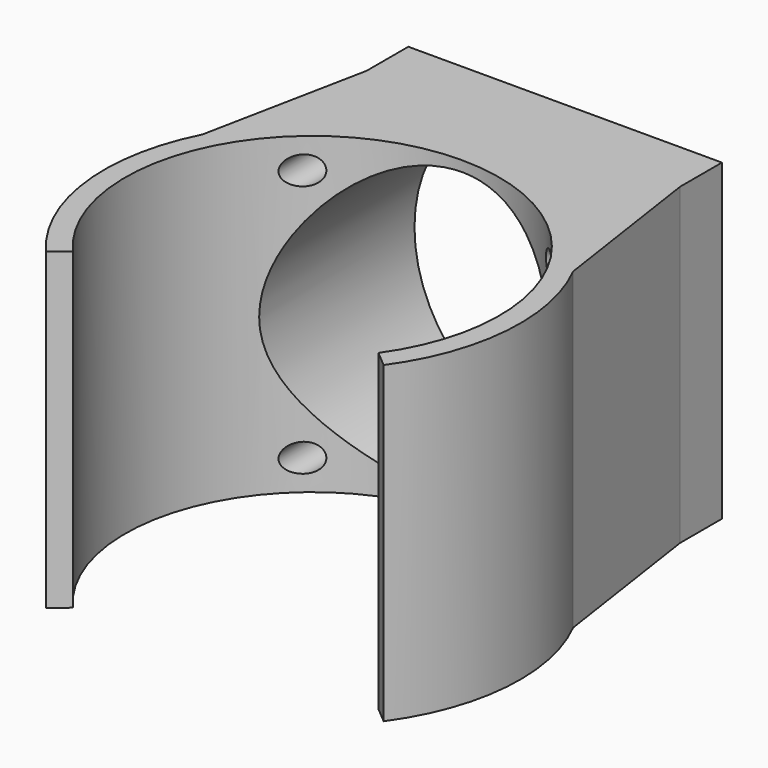
from build123d import *

# Parameters (mm, degrees)
F1_DEPTH = 30
F2_R     = 1.35
F2_R_2   = 14
F3_DEPTH = 25


with BuildPart() as f1:
    # F0 (on Top) → F1 (new body)
    with BuildSketch(Plane.XY):
        with BuildLine():
            ThreePointArc((-13.462473, -11.797111), (-0.924812, 17.876094), (14.60798, -10.344899))
            Line((14.60798, -10.344899), (16.140658, -11.639981))
            ThreePointArc((16.140658, -11.639981), (19.841413, -1.525887), (17.73066, 9.035137))
            Line((17.73066, 9.035137), (15.409903, 24.723038))
            Line((15.409903, 24.723038), (15.409903, 29.723038))
            Line((15.409903, 29.723038), (-14.590097, 29.723038))
            Line((-14.590097, 29.723038), (-14.590097, 24.723038))
            Line((-14.590097, 24.723038), (-17.73066, 9.035137))
            ThreePointArc((-17.73066, 9.035137), (-19.750704, -2.43304), (-15.007816, -13.068109))
            Line((-15.007816, -13.068109), (-13.462473, -11.797111))
        make_face()
    extrude(amount=F1_DEPTH)

    # F2 (on face) → F3 (cut)
    with BuildSketch(Plane(origin=(0, 29.723038, 0), x_dir=(-1, 0, 0), z_dir=(0, 1, 0))):
        with Locations((-12.509903, 27.1)):
            Circle(F2_R)
        with Locations((-12.509903, 2.9)):
            Circle(F2_R)
        with Locations((11.690097, 2.9)):
            Circle(F2_R)
        with Locations((11.690097, 27.1)):
            Circle(F2_R)
        with Locations((0, 15)):
            Circle(F2_R_2)
    extrude(amount=-F3_DEPTH, mode=Mode.SUBTRACT)


solid = f1.part
